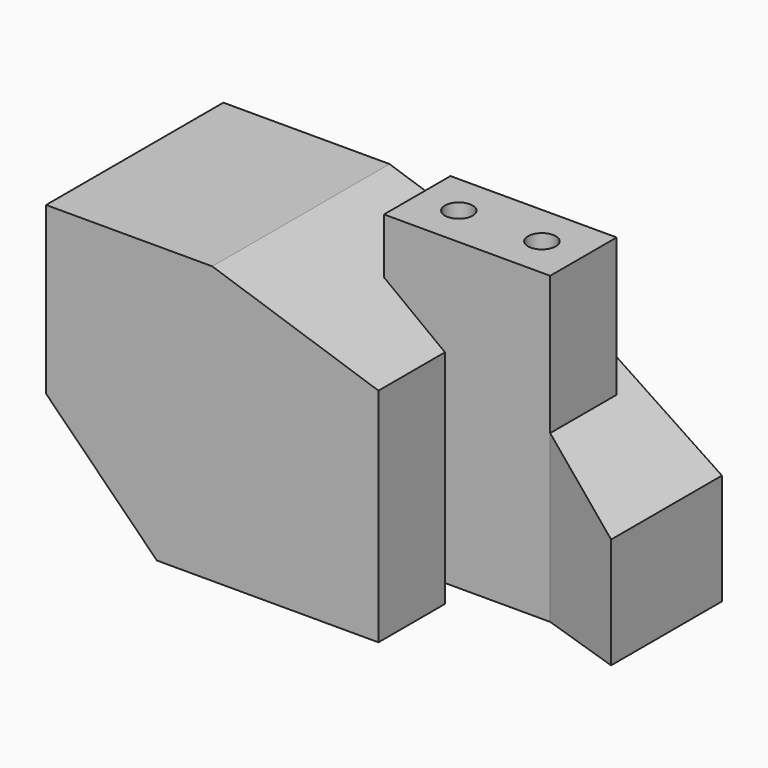
from build123d import *

# Parameters (mm, degrees)
F1_DEPTH = 25.4
F2_W     = 38.1
F2_H     = 19.05
F3_DEPTH = 63.501
F4_W     = 38.1
F4_H     = 19.05
F4_R     = 3.175
F5_DEPTH = 69.85
F6_R     = 3.175
F7_DEPTH = 69.851
F9_DEPTH = 69.851


with BuildPart() as f1:
    # F0 (on Front) → F1 (new body, symmetric)
    with BuildSketch(Plane.XZ):
        Polygon((-25.4, 25.4), (0, 0), (88.9, 0), (88.9, 25.4), (50.8, 50.8), (12.7, 63.5), (-25.4, 63.5), align=None)
    extrude(amount=F1_DEPTH, both=True)

    # F2 (on Top) → F3 (cut, through all)
    with BuildSketch(Plane.XY):
        with Locations((69.85, -15.875)):
            Rectangle(F2_W, F2_H)
    extrude(amount=F3_DEPTH, mode=Mode.SUBTRACT)

    # F4 (on Top) → F5 (join)
    with BuildSketch(Plane.XY):
        with Locations((50.8, 9.525)):
            Rectangle(F4_W, F4_H)
        with Locations((41.275, 9.525)):
            Circle(F4_R, mode=Mode.SUBTRACT)
        with Locations((60.325, 9.525)):
            Circle(F4_R, mode=Mode.SUBTRACT)
    extrude(amount=F5_DEPTH)

    # F6 (on face) → F7 (cut, through all)
    with BuildSketch(Plane.XY.offset(69.85)):
        with Locations((60.325, 9.525)):
            Circle(F6_R)
        with Locations((41.275, 9.525)):
            Circle(F6_R)
    extrude(amount=-F7_DEPTH, mode=Mode.SUBTRACT)

    # F8 (on Top) → F9 (cut, through all)
    with BuildSketch(Plane.XY):
        Polygon((69.85, 0), (31.75, 0), (50.8, -6.35), (88.9, -6.35), align=None)
    extrude(amount=F9_DEPTH, mode=Mode.SUBTRACT)


solid = f1.part
